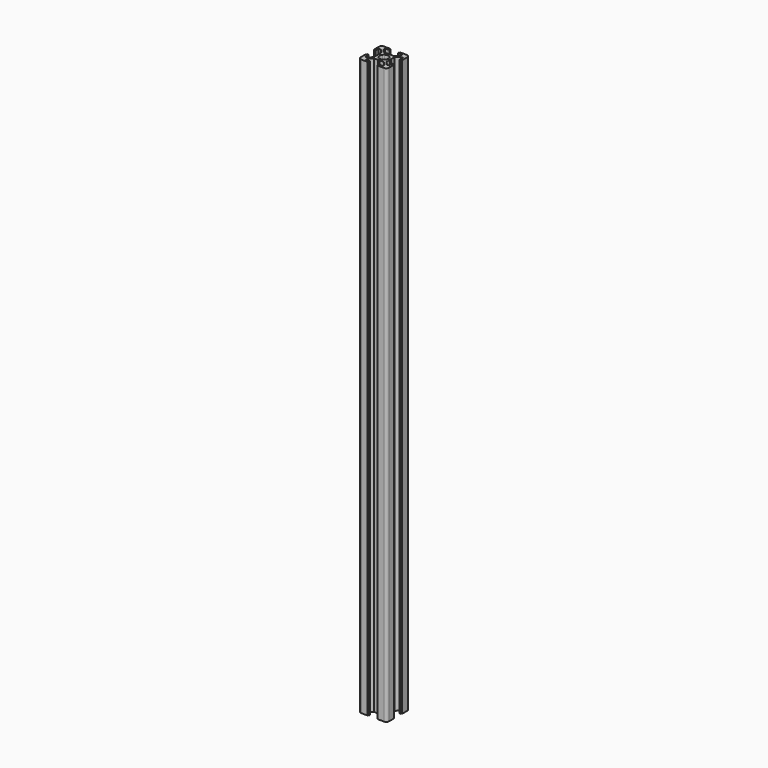
from build123d import *

# Parameters (mm, degrees)
F1_DEPTH = 405


with BuildPart() as f1:
    # F0 (on Top) → F1 (new body)
    with BuildSketch(Plane.XY):
        with BuildLine():
            ThreePointArc((-10, -7.991953), (-9.414214, -9.406167), (-8, -9.991953))
            Line((-8, -9.991953), (-3.5, -9.991953))
            Line((-3.5, -9.991953), (-3.5, -9.491953))
            Line((-3.5, -9.491953), (-3, -9.491953))
            Line((-3, -9.491953), (-3, -8.491953))
            Line((-3, -8.491953), (-6, -8.491953))
            Line((-6, -8.491953), (-6, -6.991953))
            Line((-6, -6.991953), (-3.5, -4.491953))
            Line((-3.5, -4.491953), (-0.5, -4.491953))
            Line((-0.5, -4.491953), (0, -3.991953))
            Line((0, -3.991953), (0.5, -4.491953))
            Line((0.5, -4.491953), (3.5, -4.491953))
            Line((3.5, -4.491953), (6, -6.991953))
            Line((6, -6.991953), (6, -8.491953))
            Line((6, -8.491953), (3, -8.491953))
            Line((3, -8.491953), (3, -9.491953))
            Line((3, -9.491953), (3.5, -9.491953))
            Line((3.5, -9.491953), (3.5, -9.991953))
            Line((3.5, -9.991953), (8, -9.991953))
            ThreePointArc((8, -9.991953), (9.414214, -9.406167), (10, -7.991953))
            Line((10, -7.991953), (10, -3.491953))
            Line((10, -3.491953), (9.5, -3.491953))
            Line((9.5, -3.491953), (9.5, -2.991953))
            Line((9.5, -2.991953), (8.5, -2.991953))
            Line((8.5, -2.991953), (8.5, -5.991953))
            Line((8.5, -5.991953), (7, -5.991953))
            Line((7, -5.991953), (4.5, -3.491953))
            Line((4.5, -3.491953), (4.5, -0.491953))
            Line((4.5, -0.491953), (4, 0.008047))
            Line((4, 0.008047), (4.5, 0.508047))
            Line((4.5, 0.508047), (4.5, 3.508047))
            Line((4.5, 3.508047), (7, 6.008047))
            Line((7, 6.008047), (8.5, 6.008047))
            Line((8.5, 6.008047), (8.5, 3.008047))
            Line((8.5, 3.008047), (9.5, 3.008047))
            Line((9.5, 3.008047), (9.5, 3.508047))
            Line((9.5, 3.508047), (10, 3.508047))
            Line((10, 3.508047), (10, 8.008047))
            ThreePointArc((10, 8.008047), (9.414214, 9.422261), (8, 10.008047))
            Line((8, 10.008047), (3.5, 10.008047))
            Line((3.5, 10.008047), (3.5, 9.508047))
            Line((3.5, 9.508047), (3, 9.508047))
            Line((3, 9.508047), (3, 8.508047))
            Line((3, 8.508047), (6, 8.508047))
            Line((6, 8.508047), (6, 7.008047))
            Line((6, 7.008047), (3.5, 4.508047))
            Line((3.5, 4.508047), (0.5, 4.508047))
            Line((0.5, 4.508047), (0, 4.008047))
            Line((0, 4.008047), (-0.5, 4.508047))
            Line((-0.5, 4.508047), (-3.5, 4.508047))
            Line((-3.5, 4.508047), (-6, 7.008047))
            Line((-6, 7.008047), (-6, 8.508047))
            Line((-6, 8.508047), (-3, 8.508047))
            Line((-3, 8.508047), (-3, 9.508047))
            Line((-3, 9.508047), (-3.5, 9.508047))
            Line((-3.5, 9.508047), (-3.5, 10.008047))
            Line((-3.5, 10.008047), (-8, 10.008047))
            ThreePointArc((-8, 10.008047), (-9.414214, 9.422261), (-10, 8.008047))
            Line((-10, 8.008047), (-10, 3.508047))
            Line((-10, 3.508047), (-9.5, 3.508047))
            Line((-9.5, 3.508047), (-9.5, 3.008047))
            Line((-9.5, 3.008047), (-8.5, 3.008047))
            Line((-8.5, 3.008047), (-8.5, 6.008047))
            Line((-8.5, 6.008047), (-7, 6.008047))
            Line((-7, 6.008047), (-4.5, 3.508047))
            Line((-4.5, 3.508047), (-4.5, 0.508047))
            Line((-4.5, 0.508047), (-4, 0.008047))
            Line((-4, 0.008047), (-4.5, -0.491953))
            Line((-4.5, -0.491953), (-4.5, -3.491953))
            Line((-4.5, -3.491953), (-7, -5.991953))
            Line((-7, -5.991953), (-8.5, -5.991953))
            Line((-8.5, -5.991953), (-8.5, -2.991953))
            Line((-8.5, -2.991953), (-9.5, -2.991953))
            Line((-9.5, -2.991953), (-9.5, -3.491953))
            Line((-9.5, -3.491953), (-10, -3.491953))
            Line((-10, -3.491953), (-10, -7.991953))
        make_face()
        with BuildLine():
            ThreePointArc((2.445203, 1.746144), (2.857937, 0.920294), (3, 0.008047))
            ThreePointArc((3, 0.008047), (2.857937, -0.9042), (2.445203, -1.73005))
            ThreePointArc((2.445203, -1.73005), (2.12132, -2.113273), (1.738097, -2.437156))
            ThreePointArc((1.738097, -2.437156), (0, -2.991953), (-1.738097, -2.437156))
            ThreePointArc((-1.738097, -2.437156), (-2.12132, -2.113273), (-2.445203, -1.73005))
            ThreePointArc((-2.445203, -1.73005), (-3, 0.008047), (-2.445203, 1.746144))
            ThreePointArc((-2.445203, 1.746144), (-2.12132, 2.129367), (-1.738097, 2.45325))
            ThreePointArc((-1.738097, 2.45325), (0, 3.008047), (1.738097, 2.45325))
            ThreePointArc((1.738097, 2.45325), (2.12132, 2.129367), (2.445203, 1.746144))
        make_face(mode=Mode.SUBTRACT)
    extrude(amount=F1_DEPTH)


solid = f1.part
